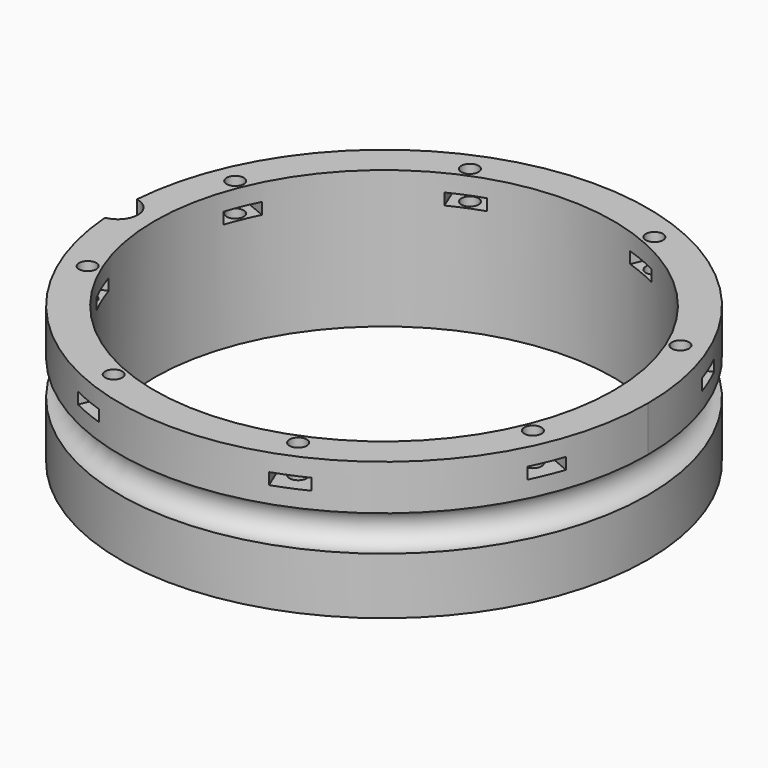
from build123d import *

# Parameters (mm, degrees)
BOX445_W                     = 6
BOX445_H                     = 8
BOX445_DEPTH                 = 2
BOX445_PLACEMENT_ANGLE       = 45
BOX443_W                     = 6
BOX443_H                     = 8
BOX443_DEPTH                 = 2
BOX442_W                     = 6
BOX442_H                     = 8
BOX442_DEPTH                 = 2
BOX447_W                     = 6
BOX447_H                     = 8
BOX447_DEPTH                 = 2
BOX447_PLACEMENT_ANGLE       = 135
BOX446_W                     = 6
BOX446_H                     = 8
BOX446_DEPTH                 = 2
BOX441_W                     = 6
BOX441_H                     = 8
BOX441_DEPTH                 = 2
BOX441_PLACEMENT_ANGLE       = 225
BOX444_W                     = 6
BOX444_H                     = 8
BOX444_DEPTH                 = 2
BOX437_W                     = 6
BOX437_H                     = 8
BOX437_DEPTH                 = 2
BOX437_PLACEMENT_ANGLE       = 45
COMPOUND869_PLACEMENT_ANGLE  = 22.5
CYLINDER1133_R               = 1.5
CYLINDER1133_DEPTH           = 32
CYLINDER1133_PLACEMENT_ANGLE = 45
CYLINDER1132_R               = 1.5
CYLINDER1132_DEPTH           = 32
CYLINDER1131_R               = 1.5
CYLINDER1131_DEPTH           = 32
CYLINDER1131_PLACEMENT_ANGLE = 135
CYLINDER1123_R               = 1.5
CYLINDER1123_DEPTH           = 32
CYLINDER1129_R               = 1.5
CYLINDER1129_DEPTH           = 32
CYLINDER1129_PLACEMENT_ANGLE = 225
CYLINDER1130_R               = 1.5
CYLINDER1130_DEPTH           = 32
CYLINDER1118_R               = 1.5
CYLINDER1118_DEPTH           = 32
CYLINDER1118_PLACEMENT_ANGLE = 45
CYLINDER1121_R               = 1.5
CYLINDER1121_DEPTH           = 32
COMPOUND871_PLACEMENT_ANGLE  = 22.5
CYLINDER1114_R               = 3.5
CYLINDER1114_DEPTH           = 20
TORUS009_R                   = 3.1
TUBE100_R                    = 46
TUBE100_R_2                  = 40
TUBE100_DEPTH                = 24


with BuildPart() as krychle445:
    # Box445 → Box445 (new body)
    with BuildSketch(Plane.XY):
        with Locations((3, 4)):
            Rectangle(BOX445_W, BOX445_H)
    extrude(amount=BOX445_DEPTH)


with BuildPart() as krychle445_1:
    # Box445 placement: moved
    add(krychle445.part.moved(Location((30.405592, -34.648232, 33))).rotate(Axis((30.405592, -34.648232, 33), (0, 0, 1)), BOX445_PLACEMENT_ANGLE))


with BuildPart() as krychle443:
    # Box443 → Box443 (new body)
    with BuildSketch(Plane(origin=(46, -3, 33), x_dir=(0, 1, 0), z_dir=(0, 0, 1))):
        with Locations((3, 4)):
            Rectangle(BOX443_W, BOX443_H)
    extrude(amount=BOX443_DEPTH)


with BuildPart() as krychle442:
    # Box442 → Box442 (new body)
    with BuildSketch(Plane(origin=(-3, -46, 33), x_dir=(1, 0, 0), z_dir=(0, 0, 1))):
        with Locations((3, 4)):
            Rectangle(BOX442_W, BOX442_H)
    extrude(amount=BOX442_DEPTH)


with BuildPart() as krychle447:
    # Box447 → Box447 (new body)
    with BuildSketch(Plane.XY):
        with Locations((3, 4)):
            Rectangle(BOX447_W, BOX447_H)
    extrude(amount=BOX447_DEPTH)


with BuildPart() as krychle447_1:
    # Box447 placement: moved
    add(krychle447.part.moved(Location((34.648232, 30.405592, 33))).rotate(Axis((34.648232, 30.405592, 33), (0, 0, 1)), BOX447_PLACEMENT_ANGLE))


with BuildPart() as krychle446:
    # Box446 → Box446 (new body)
    with BuildSketch(Plane(origin=(3, 46, 33), x_dir=(-1, 0, 0), z_dir=(0, 0, 1))):
        with Locations((3, 4)):
            Rectangle(BOX446_W, BOX446_H)
    extrude(amount=BOX446_DEPTH)


with BuildPart() as krychle441:
    # Box441 → Box441 (new body)
    with BuildSketch(Plane.XY):
        with Locations((3, 4)):
            Rectangle(BOX441_W, BOX441_H)
    extrude(amount=BOX441_DEPTH)


with BuildPart() as krychle441_1:
    # Box441 placement: moved
    add(krychle441.part.moved(Location((-30.405592, 34.648232, 33))).rotate(Axis((-30.405592, 34.648232, 33), (0, 0, 1)), BOX441_PLACEMENT_ANGLE))


with BuildPart() as krychle444:
    # Box444 → Box444 (new body)
    with BuildSketch(Plane(origin=(-46, 3, 33), x_dir=(0, -1, 0), z_dir=(0, 0, 1))):
        with Locations((3, 4)):
            Rectangle(BOX444_W, BOX444_H)
    extrude(amount=BOX444_DEPTH)


with BuildPart() as compound869:
    # Box437 → Box437 (new body)
    with BuildSketch(Plane.XY):
        with Locations((3, 4)):
            Rectangle(BOX437_W, BOX437_H)
    extrude(amount=BOX437_DEPTH)


with BuildPart() as compound869_1:
    # Box437 placement: moved
    add(compound869.part.moved(Location((-34.648232, -30.405592, 33))).rotate(Axis((-34.648232, -30.405592, 33), (0, 0, -1)), BOX437_PLACEMENT_ANGLE))

    # Compound869: union Krychle445, Krychle443, Krychle442, Krychle447, Krychle446, Krychle441, Krychle444
    add(krychle445_1.part)
    add(krychle443.part)
    add(krychle442.part)
    add(krychle447_1.part)
    add(krychle446.part)
    add(krychle441_1.part)
    add(krychle444.part)


with BuildPart() as compound869_2:
    # Compound869 placement: moved
    add(compound869_1.part.moved(Location((0, 0, 7))).rotate(Axis((0, 0, 7), (0, 0, 1)), COMPOUND869_PLACEMENT_ANGLE))


with BuildPart() as obj1:
    # Cylinder1133 → Cylinder1133 (new body)
    with BuildSketch(Plane.XY):
        Circle(CYLINDER1133_R)
    extrude(amount=CYLINDER1133_DEPTH)


with BuildPart() as obj1_1:
    # Cylinder1133 placement: moved
    add(obj1.part.moved(Location((29.698485, -29.698485, 33.5))).rotate(Axis((29.698485, -29.698485, 33.5), (0, 0, 1)), CYLINDER1133_PLACEMENT_ANGLE))


with BuildPart() as obj2:
    # Cylinder1132 → Cylinder1132 (new body)
    with BuildSketch(Plane(origin=(42, 0, 33.5), x_dir=(0, 1, 0), z_dir=(0, 0, 1))):
        Circle(CYLINDER1132_R)
    extrude(amount=CYLINDER1132_DEPTH)


with BuildPart() as obj3:
    # Cylinder1131 → Cylinder1131 (new body)
    with BuildSketch(Plane.XY):
        Circle(CYLINDER1131_R)
    extrude(amount=CYLINDER1131_DEPTH)


with BuildPart() as obj3_1:
    # Cylinder1131 placement: moved
    add(obj3.part.moved(Location((29.698485, 29.698485, 33.5))).rotate(Axis((29.698485, 29.698485, 33.5), (0, 0, 1)), CYLINDER1131_PLACEMENT_ANGLE))


with BuildPart() as obj4:
    # Cylinder1123 → Cylinder1123 (new body)
    with BuildSketch(Plane(origin=(0, 42, 33.5), x_dir=(-1, 0, 0), z_dir=(0, 0, 1))):
        Circle(CYLINDER1123_R)
    extrude(amount=CYLINDER1123_DEPTH)


with BuildPart() as obj5:
    # Cylinder1129 → Cylinder1129 (new body)
    with BuildSketch(Plane.XY):
        Circle(CYLINDER1129_R)
    extrude(amount=CYLINDER1129_DEPTH)


with BuildPart() as obj5_1:
    # Cylinder1129 placement: moved
    add(obj5.part.moved(Location((-29.698485, 29.698485, 33.5))).rotate(Axis((-29.698485, 29.698485, 33.5), (0, 0, 1)), CYLINDER1129_PLACEMENT_ANGLE))


with BuildPart() as obj6:
    # Cylinder1130 → Cylinder1130 (new body)
    with BuildSketch(Plane(origin=(-42, 0, 33.5), x_dir=(0, -1, 0), z_dir=(0, 0, 1))):
        Circle(CYLINDER1130_R)
    extrude(amount=CYLINDER1130_DEPTH)


with BuildPart() as obj7:
    # Cylinder1118 → Cylinder1118 (new body)
    with BuildSketch(Plane.XY):
        Circle(CYLINDER1118_R)
    extrude(amount=CYLINDER1118_DEPTH)


with BuildPart() as obj7_1:
    # Cylinder1118 placement: moved
    add(obj7.part.moved(Location((-29.698485, -29.698485, 33.5))).rotate(Axis((-29.698485, -29.698485, 33.5), (0, 0, -1)), CYLINDER1118_PLACEMENT_ANGLE))


with BuildPart() as compound871:
    # Cylinder1121 → Cylinder1121 (new body)
    with BuildSketch(Plane(origin=(0, -42, 33.5), x_dir=(1, 0, 0), z_dir=(0, 0, 1))):
        Circle(CYLINDER1121_R)
    extrude(amount=CYLINDER1121_DEPTH)

    # Compound871: union obj1, obj2, obj3, obj4, obj5, obj6, obj7
    add(obj1_1.part)
    add(obj2.part)
    add(obj3_1.part)
    add(obj4.part)
    add(obj5_1.part)
    add(obj6.part)
    add(obj7_1.part)


with BuildPart() as compound871_1:
    # Compound871 placement: moved
    add(compound871.part.moved(Location((0, 0, 4))).rotate(Axis((0, 0, 4), (0, 0, 1)), COMPOUND871_PLACEMENT_ANGLE))


with BuildPart() as obj8:
    # Cylinder1114 → Cylinder1114 (new body)
    with BuildSketch(Plane(origin=(-46.4, 0, 34), x_dir=(1, 0, 0), z_dir=(0, 0, 1))):
        Circle(CYLINDER1114_R)
    extrude(amount=CYLINDER1114_DEPTH)


with BuildPart() as obj9:
    # Torus009 → Torus009 (revolve)
    with BuildSketch(Plane(origin=(0, 0, 34), x_dir=(1, 0, 0), z_dir=(0, -1, 0))):
        with Locations((46, 0)):
            Circle(TORUS009_R)
    revolve(axis=Axis((0, 0, 34), (0, 0, 1)))


with BuildPart() as cut421:
    # Tube100 → Tube100 (new body)
    with BuildSketch(Plane.XY.offset(21)):
        Circle(TUBE100_R)
        Circle(TUBE100_R_2, mode=Mode.SUBTRACT)
    extrude(amount=TUBE100_DEPTH)

    # Cut419: cut obj9
    add(obj9.part, mode=Mode.SUBTRACT)

    # Cut426: cut obj8
    add(obj8.part, mode=Mode.SUBTRACT)

    # Cut420: cut Compound871
    add(compound871_1.part, mode=Mode.SUBTRACT)

    # Cut421: cut Compound869
    add(compound869_2.part, mode=Mode.SUBTRACT)


solid = cut421.part
